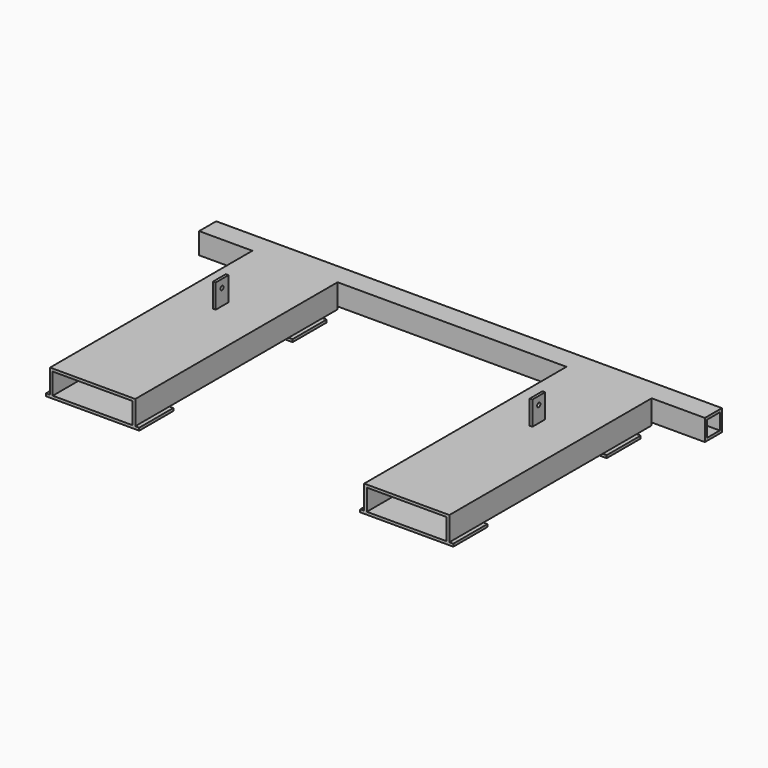
from build123d import *

# Parameters (mm, degrees)
F0_W      = 50.8
F0_H      = 50.8
F0_W_2    = 38.1
F0_H_2    = 38.1
F1_DEPTH  = 1206.5
F4_DEPTH  = 603.25
F5_W      = 222.25
F5_H      = 101.6
F6_DEPTH  = 6.35
F7_W      = 6.35
F7_H      = 38.1
F8_DEPTH  = 57.15
F9_R      = 4.7625
F10_DEPTH = 762


with BuildPart() as f1:
    # F0 (on Right) → F1 (new body)
    with BuildSketch(Plane.YZ):
        Rectangle(F0_W, F0_H)
        Rectangle(F0_W_2, F0_H_2, mode=Mode.SUBTRACT)
    extrude(amount=-F1_DEPTH)

    # F3 (on offset) → F4 (join)
    with BuildSketch(Plane.XZ.offset(25.4)):
        Polygon((-876.3, 25.4), (-1079.5, 25.4), (-1079.5, -31.75), (-1073.15, -31.75), (-1073.15, 19.05), (-882.65, 19.05), (-882.65, -31.75), (-876.3, -31.75), align=None)
        Polygon((-127, -31.75), (-127, 25.4), (-330.2, 25.4), (-330.2, -31.75), (-323.85, -31.75), (-323.85, 19.05), (-133.35, 19.05), (-133.35, -31.75), align=None)
    extrude(amount=F4_DEPTH)

    # F5 (on face) → F6 (join)
    with BuildSketch(Plane(origin=(0, 0, -31.75), x_dir=(1, 0, 0), z_dir=(0, 0, -1))):
        with Locations((-228.6, 120.65)):
            Rectangle(F5_W, F5_H)
        with Locations((-228.6, 577.85)):
            Rectangle(F5_W, F5_H)
        with Locations((-977.9, 120.65)):
            Rectangle(F5_W, F5_H)
        with Locations((-977.9, 577.85)):
            Rectangle(F5_W, F5_H)
    extrude(amount=F6_DEPTH)

    # F7 (on face) → F8 (join)
    with BuildSketch(Plane.XY.offset(25.4)):
        with Locations((-231.775, -234.95)):
            Rectangle(F7_W, F7_H)
        with Locations((-987.425, -234.95)):
            Rectangle(F7_W, F7_H)
    extrude(amount=F8_DEPTH)

    # F9 (on face) → F10 (cut)
    with BuildSketch(Plane.YZ.offset(-228.6)):
        with Locations((-234.95, 63.5)):
            Circle(F9_R)
    extrude(amount=-F10_DEPTH, mode=Mode.SUBTRACT)


solid = f1.part
